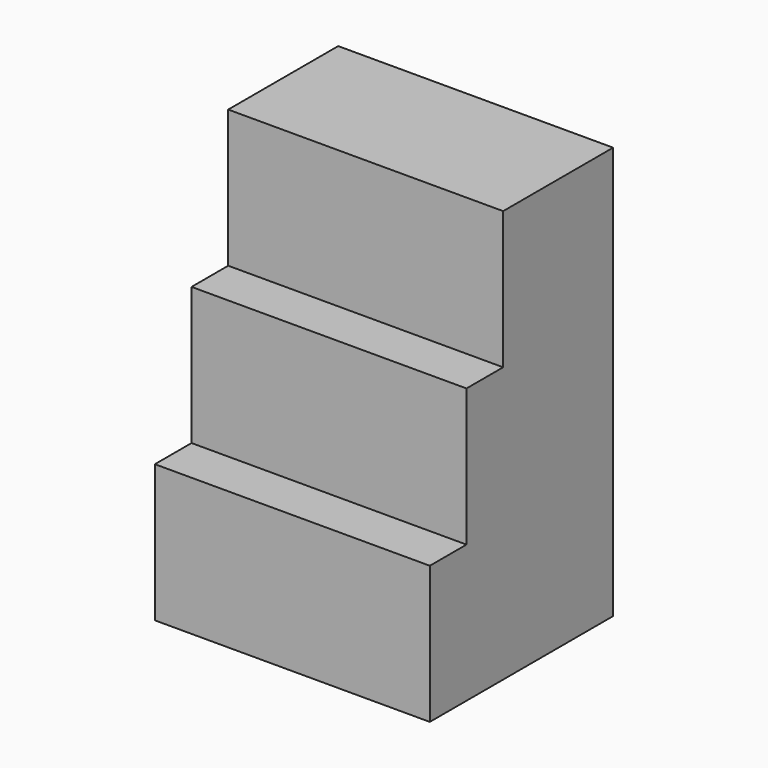
from build123d import *

# Parameters (mm, degrees)
F1_DEPTH = 254
F2_DEPTH = 1270


with BuildPart() as f1:
    # F0 (on Right) → F1 (new body)
    with BuildSketch(Plane.YZ):
        Polygon((0, 762), (0, 0), (1270, 0), (1270, 2286), (508, 2286), (508, 1524), (254, 1524), (254, 762), align=None)
    extrude(amount=F1_DEPTH)

    # F1_face (on face) → F2 (join)
    with BuildSketch(Plane(origin=(254, 740.833333, 1016), x_dir=(0, 1, 0), z_dir=(1, 0, 0))):
        Polygon((-740.833333, -254), (-740.833333, -1016), (529.166667, -1016), (529.166667, 1270), (-232.833333, 1270), (-232.833333, 508), (-486.833333, 508), (-486.833333, -254), align=None)
    extrude(amount=F2_DEPTH)


solid = f1.part
